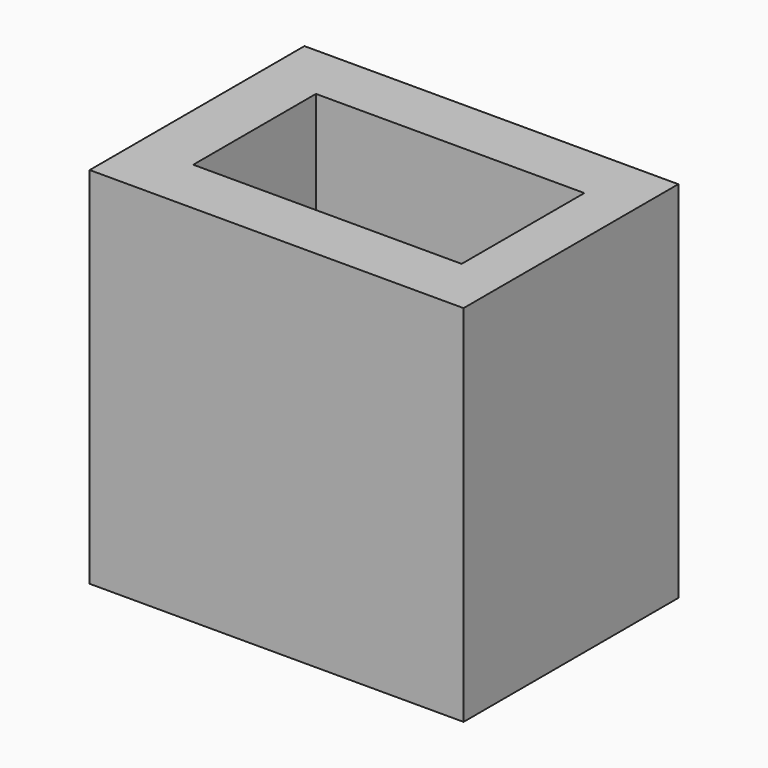
from build123d import *

# Parameters (mm, degrees)
BOX099_W     = 140
BOX099_H     = 80
BOX099_DEPTH = 190
BOX098_W     = 140
BOX098_H     = 80
BOX098_DEPTH = 190
BOX100_W     = 195
BOX100_H     = 140
BOX100_DEPTH = 190


with BuildPart() as cube071:
    # Box099 → Box099 (new body)
    with BuildSketch(Plane(origin=(220, 30, 0), x_dir=(1, 0, 0), z_dir=(0, 0, 1))):
        with Locations((70, 40)):
            Rectangle(BOX099_W, BOX099_H)
    extrude(amount=BOX099_DEPTH)


with BuildPart() as fusion016:
    # Box098 → Box098 (new body)
    with BuildSketch(Plane(origin=(30, 30, 0), x_dir=(1, 0, 0), z_dir=(0, 0, 1))):
        with Locations((70, 40)):
            Rectangle(BOX098_W, BOX098_H)
    extrude(amount=BOX098_DEPTH)

    # Fusion016: union Cube071
    add(cube071.part)


with BuildPart() as obj1:
    # Box100 → Box100 (new body)
    with BuildSketch(Plane.XY):
        with Locations((97.5, 70)):
            Rectangle(BOX100_W, BOX100_H)
    extrude(amount=BOX100_DEPTH)

    # Cut011: cut Fusion016
    add(fusion016.part, mode=Mode.SUBTRACT)


with BuildPart() as obj1_1:
    # Cut011 placement: moved
    add(obj1.part.moved(Location((230, 445, -590))))


solid = obj1_1.part
